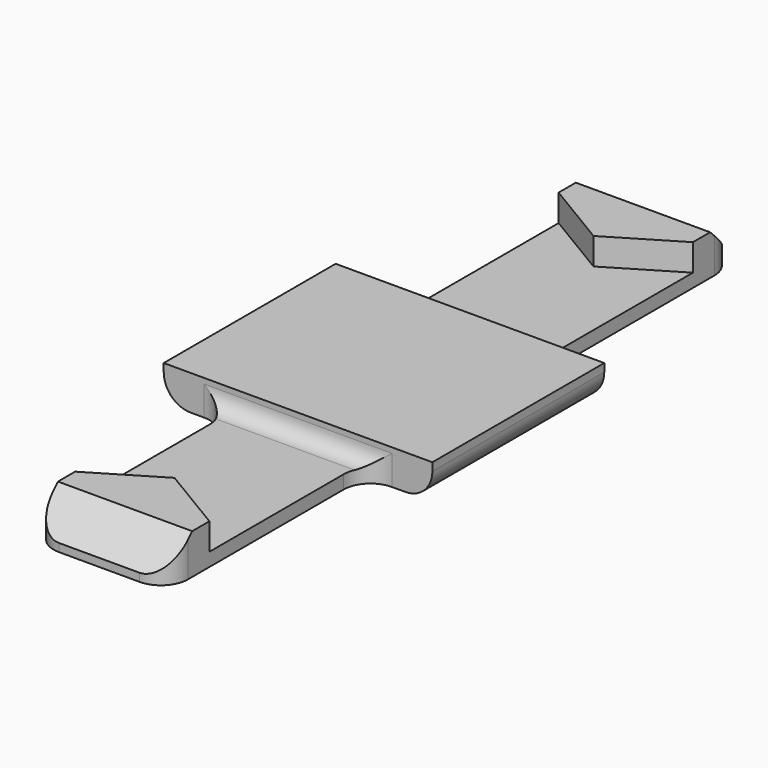
from build123d import *

# Parameters (mm, degrees)
PAD_DEPTH    = 1
SKETCH001_W  = 20
SKETCH001_H  = 16
PAD001_DEPTH = 1.6
PAD002_DEPTH = 2
FILLET_R     = 2
CHAMFER_SIZE = 2.4
FILLET001_R  = 1.2
FILLET002_R  = 2
FILLET003_R  = 2


with BuildPart() as part:
    # Sketch → Pad (new body)
    with BuildSketch(Plane.XY):
        Polygon((-10, 8), (-10, -8), (-5, -8), (-5, -26.5), (5, -26.5), (5, -8), (10, -8), (10, 8), (5, 8), (5, 26.5), (-5, 26.5), (-5, 8), align=None)
    extrude(amount=PAD_DEPTH)

    # Sketch001 (on Face14 of Pad) → Pad001 (join)
    with BuildSketch(Plane.XY.offset(1)):
        Rectangle(SKETCH001_W, SKETCH001_H)
    extrude(amount=PAD001_DEPTH)

    # Sketch002 (on Face8 of Pad001) → Pad002 (join)
    with BuildSketch(Plane.XY.offset(1)):
        Polygon((-5, 26.5), (5, 26.5), (5, 22.5), (0, 19.5), (-5, 22.5), align=None)
    pad002 = extrude(amount=PAD002_DEPTH)

    # Mirrored: Pad002 across Sketch002 H_Axis
    add(pad002.mirror(Plane(origin=(0, 0, 1), x_dir=(0, 0, 1), z_dir=(0, 1, 0))))

    # Fillet
    fillet_edges = [part.edges().sort_by_distance(p)[0] for p in [
        (5, -8, 0.5),
        (-5, -8, 0.5),
        (-5, 8, 0.5),
        (5, 8, 0.5),
    ]]
    fillet(fillet_edges, radius=FILLET_R)

    # Chamfer
    chamfer_edges = [part.edges().sort_by_distance(p)[0] for p in [
        (0, 26.5, 3),
        (0, -26.5, 3),
    ]]
    chamfer(chamfer_edges, length=CHAMFER_SIZE)

    # Fillet001
    fillet001_edges = [part.edges().sort_by_distance(p)[0] for p in [
        (0, 8, 1),
        (0, -8, 1),
    ]]
    fillet(fillet001_edges, radius=FILLET001_R)

    # Fillet002
    fillet002_edges = [part.edges().sort_by_distance(p)[0] for p in [
        (10, 0, 0),
        (-10, 0, 0),
    ]]
    fillet(fillet002_edges, radius=FILLET002_R)

    # Fillet003
    fillet003_edges = [part.edges().sort_by_distance(p)[0] for p in [
        (-5, -26.5, 0.3),
        (5, -26.5, 0.3),
        (-5, 26.5, 0.3),
        (5, 26.5, 0.3),
    ]]
    fillet(fillet003_edges, radius=FILLET003_R)


solid = part.part
